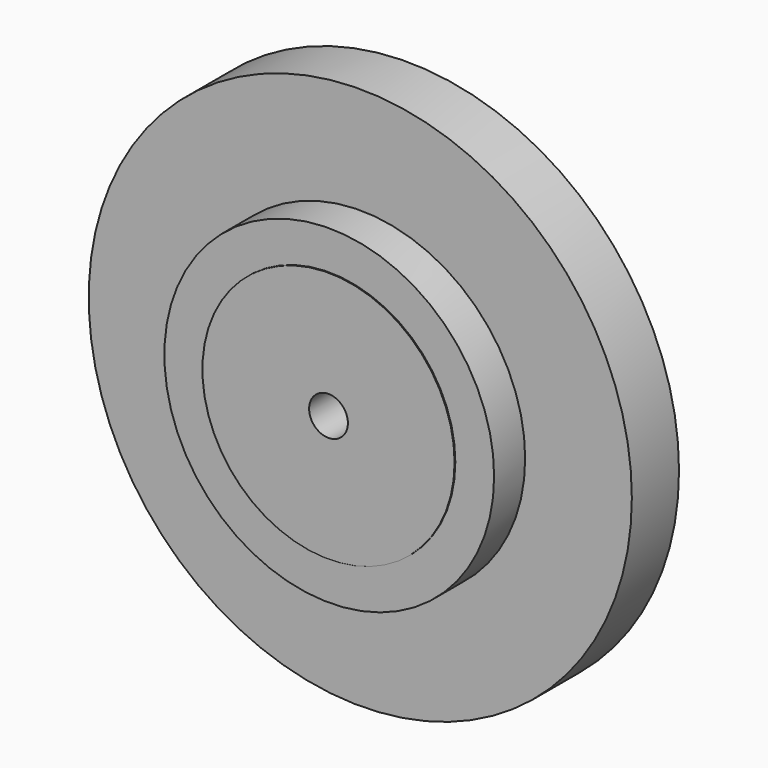
from build123d import *

# Parameters (mm, degrees)
F0_R     = 20.6375
F0_R_2   = 3.175
F1_DEPTH = 16.1544
F0_R_3   = 26.9875
F2_DEPTH = 16.002
F0_R_4   = 44.45
F3_DEPTH = 9.652


with BuildPart() as f1:
    # F0 (on Front) → F1 (new body)
    with BuildSketch(Plane.XZ):
        Circle(F0_R)
        Circle(F0_R_2, mode=Mode.SUBTRACT)
    extrude(amount=F1_DEPTH)

    # F0 (on Front) → F2 (join)
    with BuildSketch(Plane.XZ):
        Circle(F0_R_3)
        Circle(F0_R, mode=Mode.SUBTRACT)
    extrude(amount=F2_DEPTH)

    # F0 (on Front) → F3 (join)
    with BuildSketch(Plane.XZ):
        Circle(F0_R_4)
        Circle(F0_R_3, mode=Mode.SUBTRACT)
    extrude(amount=F3_DEPTH)


solid = f1.part
